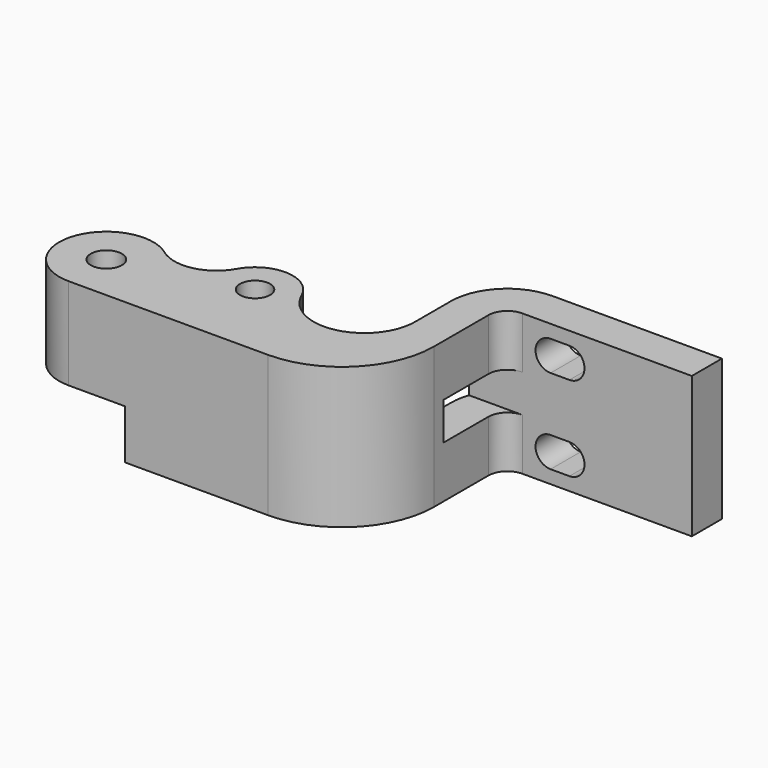
from build123d import *

# Parameters (mm, degrees)
CYLINDER_R           = 6.5
CYLINDER_DEPTH       = 5
PAD001_DEPTH         = 5.25
SKETCH_R             = 1.6
SKETCH_R_2           = 1.65
PAD_DEPTH            = 15
POCKET_DEPTH         = 5
SKETCH003_W          = 8
SKETCH003_H          = 4
POCKET001_DEPTH      = 36.001
POCKET001_DEPTH_BACK = -20.001
CYLINDER001_R        = 1.5
CYLINDER001_DEPTH    = 4.5
CYLINDER002_R        = 4
CYLINDER002_DEPTH    = 4.5
CHAMFER_SIZE         = 0.8


with BuildPart() as rodamiento:
    # Cylinder → Cylinder (new body)
    with BuildSketch(Plane(origin=(0, -10, 5), x_dir=(1, 0, 0), z_dir=(0, 0, 1))):
        Circle(CYLINDER_R)
    extrude(amount=CYLINDER_DEPTH)


with BuildPart() as obj1:
    # Sketch001 → Pad001 (new body)
    with BuildSketch(Plane.XY):
        with BuildLine():
            ThreePointArc((-13, -7), (-19, -13.000015), (-12.99997, -19))
            Line((-7, -19), (-12.99997, -19))
            Line((-7, -7), (-7, -19))
            Line((-13, -7), (-7, -7))
        make_face()
    extrude(amount=PAD001_DEPTH)


with BuildPart() as pocket001:
    # Sketch → Pad (new body)
    with BuildSketch(Plane.XY):
        with BuildLine():
            ThreePointArc((-10.040445, -8.969983), (-17.75132, -11.442772), (-13, -18))
            Line((-13, -18), (8.202725, -18))
            ThreePointArc((8.202725, -18), (15.130445, -15.130444), (18, -8.202724))
            Line((18, -8.202724), (18, -1))
            ThreePointArc((20, 1), (18.585786, 0.414214), (18, -1))
            Line((20, 1), (38, 1))
            Line((38, 1), (38, 5))
            Line((38, 5), (20.000029, 5))
            ThreePointArc((20.000029, 5), (15.757369, 3.24265), (14, -1.000002))
            Line((14, -1.000002), (14, -5.737497))
            ThreePointArc((3.665093, -7.897784), (9.710254, -11.016634), (14, -5.737497))
            ThreePointArc((3.665093, -7.897784), (0.195225, -5.504767), (-3.491422, -7.548085))
            ThreePointArc((-10.040445, -8.969983), (-6.445357, -9.735554), (-3.491422, -7.548085))
        make_face()
        with Locations((0, -9.5)):
            Circle(SKETCH_R, mode=Mode.SUBTRACT)
        with Locations((-13, -13)):
            Circle(SKETCH_R_2, mode=Mode.SUBTRACT)
    extrude(amount=PAD_DEPTH)

    # Cut: cut obj1
    add(obj1.part, mode=Mode.SUBTRACT)

    # Cut001: cut rodamiento
    add(rodamiento.part, mode=Mode.SUBTRACT)

    # Sketch002 → Pocket (cut)
    with BuildSketch(Plane(origin=(0, 5, 0), x_dir=(-1, 0, 0), z_dir=(0, 1, 0))):
        with BuildLine():
            ThreePointArc((-25, 13.6), (-26.6, 12), (-25, 10.4))
            Line((-25, 10.4), (-23, 10.4))
            ThreePointArc((-23, 10.4), (-21.4, 12), (-23, 13.6))
            Line((-25, 13.6), (-23, 13.6))
        make_face()
        with BuildLine():
            ThreePointArc((-25, 4.6), (-26.6, 3), (-25, 1.4))
            Line((-25, 1.4), (-23, 1.4))
            ThreePointArc((-23, 1.4), (-21.4, 3), (-23, 4.6))
            Line((-25, 4.6), (-23, 4.6))
        make_face()
    extrude(amount=-POCKET_DEPTH, mode=Mode.SUBTRACT)

    # Sketch003 → Pocket001 (cut, two sides)
    with BuildSketch(Plane.YZ.offset(18)) as pocket001_sk:
        with Locations((-3, 7.5)):
            Rectangle(SKETCH003_W, SKETCH003_H)
    extrude(amount=-POCKET001_DEPTH, mode=Mode.SUBTRACT)
    extrude(pocket001_sk.sketch, amount=-POCKET001_DEPTH_BACK, mode=Mode.SUBTRACT)


with BuildPart() as cilindro:
    # Cylinder001 → Cylinder001 (new body)
    with BuildSketch(Plane(origin=(0, -9.5, 5.25), x_dir=(1, 0, 0), z_dir=(0, 0, 1))):
        Circle(CYLINDER001_R)
    extrude(amount=CYLINDER001_DEPTH)


with BuildPart() as chamfer_body:
    # Cylinder002 → Cylinder002 (new body)
    with BuildSketch(Plane(origin=(0, -9.5, 5.25), x_dir=(1, 0, 0), z_dir=(0, 0, 1))):
        Circle(CYLINDER002_R)
    extrude(amount=CYLINDER002_DEPTH)

    # Cut002: cut Cilindro
    add(cilindro.part, mode=Mode.SUBTRACT)

    # Chamfer
    chamfer_edges = [chamfer_body.edges().sort_by_distance(p)[0] for p in [
        (-4, -9.5, 9.75),
        (-1.5, -9.5, 9.75),
    ]]
    chamfer(chamfer_edges, length=CHAMFER_SIZE)


solid = Compound([pocket001.part, chamfer_body.part])
